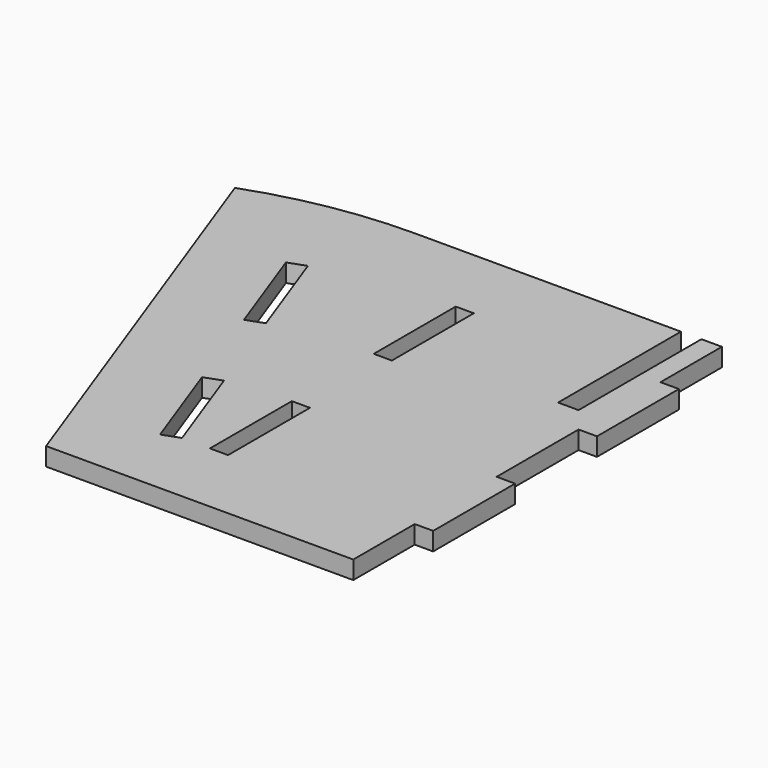
from build123d import *

# Parameters (mm, degrees)
F1_DEPTH = 4.4958
F2_W     = 4.4958
F2_H     = 25.4
F2_W_2   = 5.08
F2_H_2   = 38.1
F3_DEPTH = 4.4968


with BuildPart() as f1:
    # F0 (on Top) → F1 (new body)
    with BuildSketch(Plane.XY):
        with BuildLine():
            Line((38.1, 57.15), (-38.1, 57.15))
            ThreePointArc((-38.1, 57.15), (-57.947987, 55.413526), (-77.192902, 50.256867))
            Line((-77.192902, 50.256867), (-38.1, -57.15))
            Line((-38.1, -57.15), (38.1, -57.15))
            Line((38.1, -57.15), (38.1, -38.1))
            Line((38.1, -38.1), (42.672, -38.1))
            Line((42.672, -38.1), (42.672, -12.7))
            Line((42.672, -12.7), (38.1, -12.7))
            Line((38.1, -12.7), (38.1, 0))
            Line((38.1, 0), (38.1, 12.7))
            Line((38.1, 12.7), (42.672, 12.7))
            Line((42.672, 12.7), (42.672, 38.1))
            Line((42.672, 38.1), (38.1, 38.1))
            Line((38.1, 38.1), (38.1, 57.15))
        make_face()
    extrude(amount=F1_DEPTH)

    # F2 (on face) → F3 (cut, through all)
    with BuildSketch(Plane.XY.offset(4.4958)):
        with Locations((-10.4521, 25.4)):
            Rectangle(F2_W, F2_H)
        with Locations((-10.4521, -25.4)):
            Rectangle(F2_W, F2_H)
        Polygon((-37.024473, 9.680939), (-45.711784, 33.549132), (-49.936454, 32.011478), (-41.249143, 8.143285), align=None)
        Polygon((-23.874519, -39.5931), (-19.649849, -38.055446), (-28.337161, -14.187253), (-32.561831, -15.724908), align=None)
        with Locations((30.48, 38.1)):
            Rectangle(F2_W_2, F2_H_2)
    extrude(amount=-F3_DEPTH, mode=Mode.SUBTRACT)


solid = f1.part
